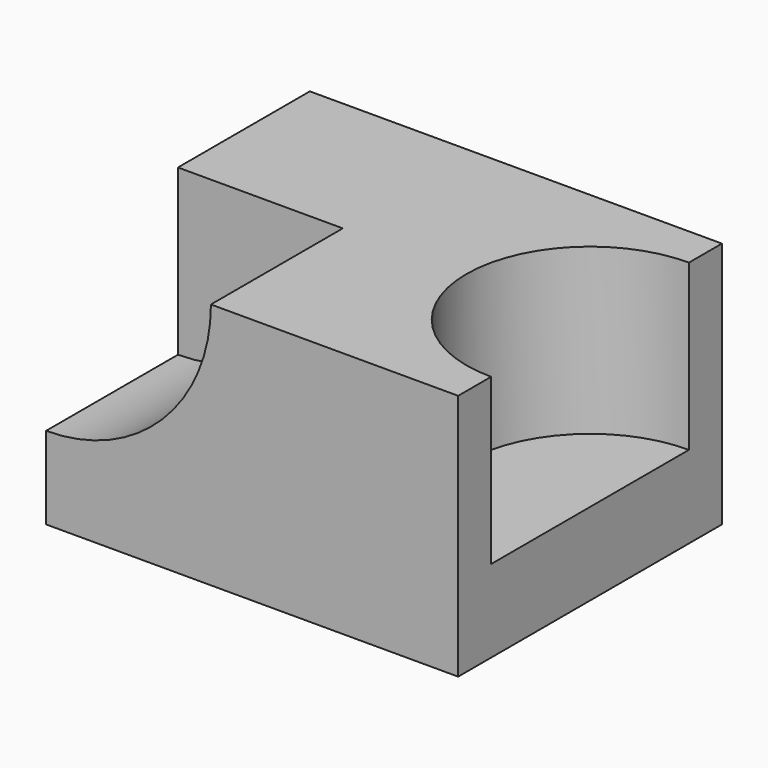
from build123d import *

# Parameters (mm, degrees)
F0_W     = 50
F0_H     = 40
F1_DEPTH = 30
F2_R     = 20
F3_DEPTH = 20
F4_R     = 15
F5_DEPTH = 20


with BuildPart() as f1:
    # F0 (on Top) → F1 (new body)
    with BuildSketch(Plane.XY):
        Rectangle(F0_W, F0_H)
    extrude(amount=F1_DEPTH)

    # F2 (on face) → F3 (cut)
    with BuildSketch(Plane.XZ.offset(20)):
        with Locations((-25, 30)):
            Circle(F2_R)
    extrude(amount=-F3_DEPTH, mode=Mode.SUBTRACT)

    # F4 (on face) → F5 (cut)
    with BuildSketch(Plane.XY.offset(30)):
        with Locations((25, 0)):
            Circle(F4_R)
    extrude(amount=-F5_DEPTH, mode=Mode.SUBTRACT)


solid = f1.part
